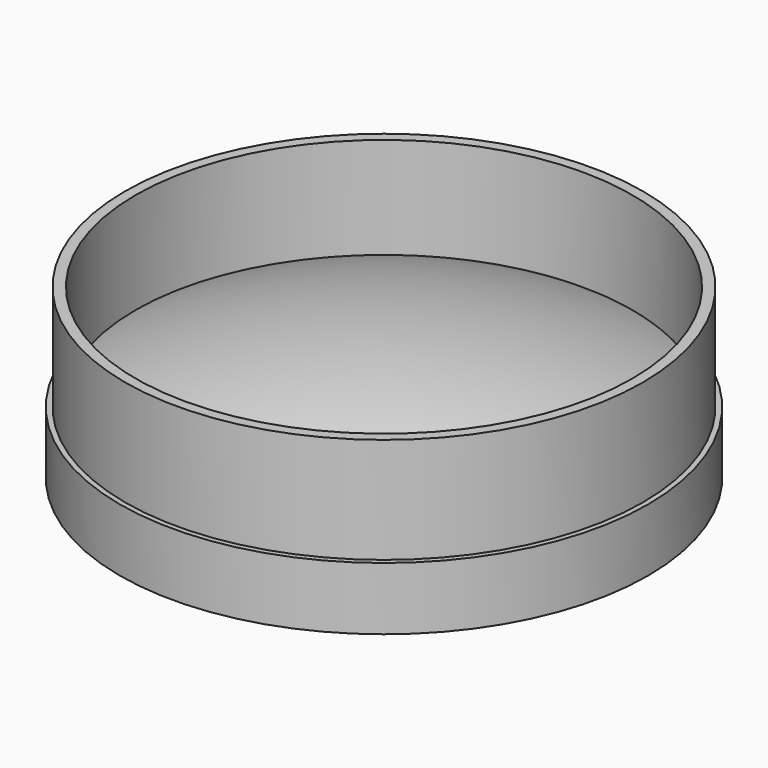
from build123d import *

# Parameters (mm, degrees)
F0_R     = 24.75
F0_R_2   = 23.75
F1_DEPTH = 16.1
F0_R_3   = 25.25
F2_DEPTH = 6


with BuildPart() as f1:
    # F0 (on Top) → F1 (new body)
    with BuildSketch(Plane.XY):
        Circle(F0_R)
        Circle(F0_R_2, mode=Mode.SUBTRACT)
    extrude(amount=F1_DEPTH)

    # F0 (on Top) → F2 (join)
    with BuildSketch(Plane.XY):
        Circle(F0_R_3)
        Circle(F0_R, mode=Mode.SUBTRACT)
    extrude(amount=F2_DEPTH)


with BuildPart() as f4:
    # F3 (on Right) → F4 (revolve)
    with BuildSketch(Plane.YZ):
        with BuildLine():
            ThreePointArc((0, 0.356617), (12.731392, 1.765281), (24.846878, 5.923124))
            ThreePointArc((24.846878, 5.923124), (12.731397, 10.081004), (0, 11.489681))
            Line((0, 11.489681), (0, 0.356617))
        make_face()
    revolve(axis=Axis((0, 0, 16.618348), (0, 0, 1)))


solid = Compound([f1.part, f4.part])
